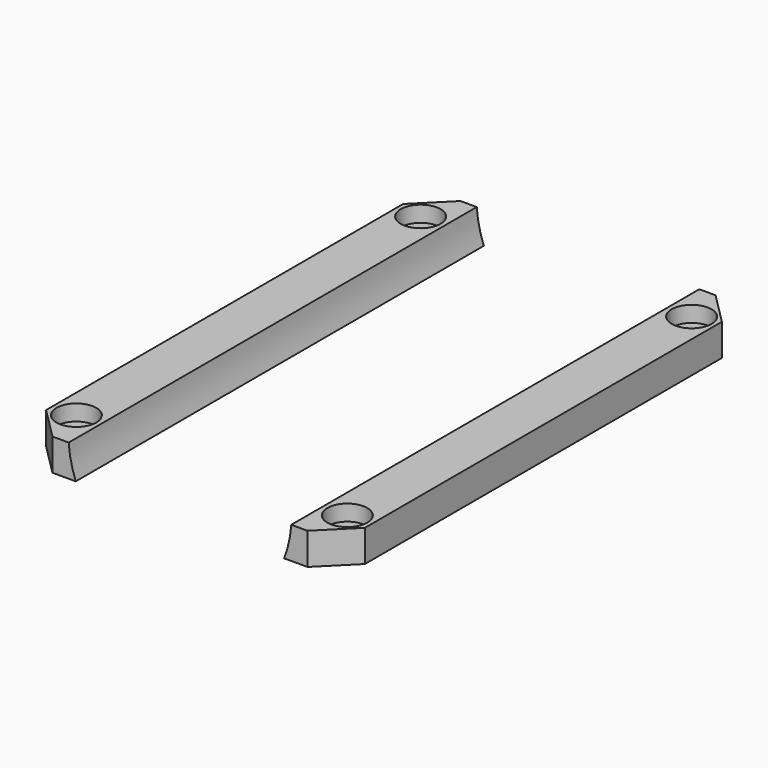
from build123d import *

# Parameters (mm, degrees)
CYLINDER1815_R     = 2.5
CYLINDER1815_DEPTH = 3
CYLINDER1816_R     = 2.5
CYLINDER1816_DEPTH = 3
CYLINDER1814_R     = 2.5
CYLINDER1814_DEPTH = 3
CYLINDER1812_R     = 2.5
CYLINDER1812_DEPTH = 3
CYLINDER1811_R     = 1.25
CYLINDER1811_DEPTH = 20
CYLINDER1817_R     = 1.25
CYLINDER1817_DEPTH = 20
CYLINDER1810_R     = 1.25
CYLINDER1810_DEPTH = 20
CYLINDER1813_R     = 1.25
CYLINDER1813_DEPTH = 20
CYLINDER1818_R     = 14
CYLINDER1818_DEPTH = 64
BOX714_W           = 40
BOX714_H           = 64
BOX714_DEPTH       = 4
CHAMFER061_SIZE    = 4
CHAMFER059_SIZE    = 4


with BuildPart() as obj1:
    # Cylinder1815 → Cylinder1815 (new body)
    with BuildSketch(Plane(origin=(58, -43, 26), x_dir=(1, 0, 0), z_dir=(0, 0, 1))):
        Circle(CYLINDER1815_R)
    extrude(amount=CYLINDER1815_DEPTH)


with BuildPart() as compound904:
    # Cylinder1816 → Cylinder1816 (new body)
    with BuildSketch(Plane(origin=(58, 11, 26), x_dir=(1, 0, 0), z_dir=(0, 0, 1))):
        Circle(CYLINDER1816_R)
    extrude(amount=CYLINDER1816_DEPTH)

    # Compound904: union obj1
    add(obj1.part)


with BuildPart() as compound904_1:
    # Compound904 placement: moved
    add(compound904.part.moved(Location((34, 0, 13))))


with BuildPart() as obj2:
    # Cylinder1814 → Cylinder1814 (new body)
    with BuildSketch(Plane(origin=(58, -43, 26), x_dir=(1, 0, 0), z_dir=(0, 0, 1))):
        Circle(CYLINDER1814_R)
    extrude(amount=CYLINDER1814_DEPTH)


with BuildPart() as compound905:
    # Cylinder1812 → Cylinder1812 (new body)
    with BuildSketch(Plane(origin=(58, 11, 26), x_dir=(1, 0, 0), z_dir=(0, 0, 1))):
        Circle(CYLINDER1812_R)
    extrude(amount=CYLINDER1812_DEPTH)

    # Compound902: union obj2
    add(obj2.part)


with BuildPart() as compound905_1:
    # Compound902 placement: moved
    add(compound905.part.moved(Location((0, 0, 13))))

    # Compound905: union Compound904
    add(compound904_1.part)


with BuildPart() as obj3:
    # Cylinder1811 → Cylinder1811 (new body)
    with BuildSketch(Plane(origin=(58, -43, 26), x_dir=(1, 0, 0), z_dir=(0, 0, 1))):
        Circle(CYLINDER1811_R)
    extrude(amount=CYLINDER1811_DEPTH)


with BuildPart() as compound900:
    # Cylinder1817 → Cylinder1817 (new body)
    with BuildSketch(Plane(origin=(58, 11, 26), x_dir=(1, 0, 0), z_dir=(0, 0, 1))):
        Circle(CYLINDER1817_R)
    extrude(amount=CYLINDER1817_DEPTH)

    # Compound900: union obj3
    add(obj3.part)


with BuildPart() as compound900_1:
    # Compound900 placement: moved
    add(compound900.part.moved(Location((34, 0, 0))))


with BuildPart() as obj4:
    # Cylinder1810 → Cylinder1810 (new body)
    with BuildSketch(Plane(origin=(58, -43, 26), x_dir=(1, 0, 0), z_dir=(0, 0, 1))):
        Circle(CYLINDER1810_R)
    extrude(amount=CYLINDER1810_DEPTH)


with BuildPart() as compound901:
    # Cylinder1813 → Cylinder1813 (new body)
    with BuildSketch(Plane(origin=(58, 11, 26), x_dir=(1, 0, 0), z_dir=(0, 0, 1))):
        Circle(CYLINDER1813_R)
    extrude(amount=CYLINDER1813_DEPTH)

    # Compound903: union obj4
    add(obj4.part)

    # Compound901: union Compound900
    add(compound900_1.part)


with BuildPart() as obj5:
    # Cylinder1818 → Cylinder1818 (new body)
    with BuildSketch(Plane(origin=(75, 16, 42), x_dir=(1, 0, 0), z_dir=(0, -1, 0))):
        Circle(CYLINDER1818_R)
    extrude(amount=CYLINDER1818_DEPTH)


with BuildPart() as chamfer059:
    # Box714 → Box714 (new body)
    with BuildSketch(Plane(origin=(55, -48, 37), x_dir=(1, 0, 0), z_dir=(0, 0, 1))):
        with Locations((20, 32)):
            Rectangle(BOX714_W, BOX714_H)
    extrude(amount=BOX714_DEPTH)

    # Cut536: cut obj5
    add(obj5.part, mode=Mode.SUBTRACT)

    # Cut534: cut Compound901
    add(compound901.part, mode=Mode.SUBTRACT)

    # Cut537: cut Compound905
    add(compound905_1.part, mode=Mode.SUBTRACT)

    # Chamfer061
    chamfer061_edges = [chamfer059.edges().sort_by_distance(p)[0] for p in [
        (55, -48, 39),
        (95, -48, 39),
    ]]
    chamfer(chamfer061_edges, length=CHAMFER061_SIZE)

    # Chamfer059
    chamfer059_edges = [chamfer059.edges().sort_by_distance(p)[0] for p in [
        (55, 16, 39),
        (95, 16, 39),
    ]]
    chamfer(chamfer059_edges, length=CHAMFER059_SIZE)


solid = chamfer059.part
